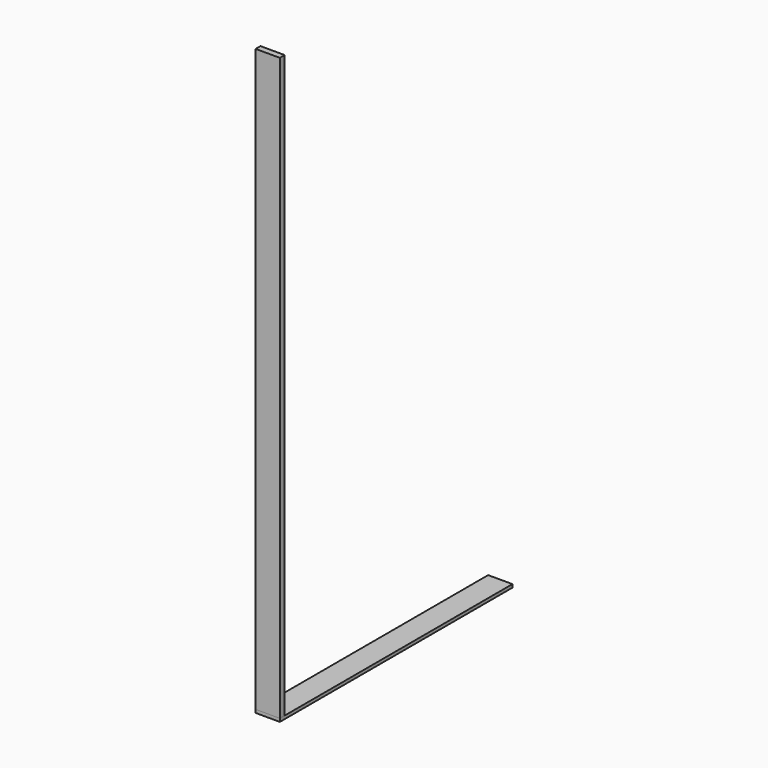
from build123d import *

# Parameters (mm, degrees)
F0_W     = 8.466666
F0_H     = 2.116667
F1_DEPTH = 203.2
F2_W     = 8.499438
F2_H     = 1.103376
F3_DEPTH = 101.6


with BuildPart() as f1:
    # F0 (on Top) → F1 (new body)
    with BuildSketch(Plane.XY):
        with Locations((-28.685067, 1.058334)):
            Rectangle(F0_W, F0_H)
    extrude(amount=F1_DEPTH)


with BuildPart() as f3:
    # F2 (on Front) → F3 (new body)
    with BuildSketch(Plane.XZ):
        with Locations((-28.686176, -0.551688)):
            Rectangle(F2_W, F2_H)
    extrude(amount=-F3_DEPTH)


solid = Compound([f1.part, f3.part])
